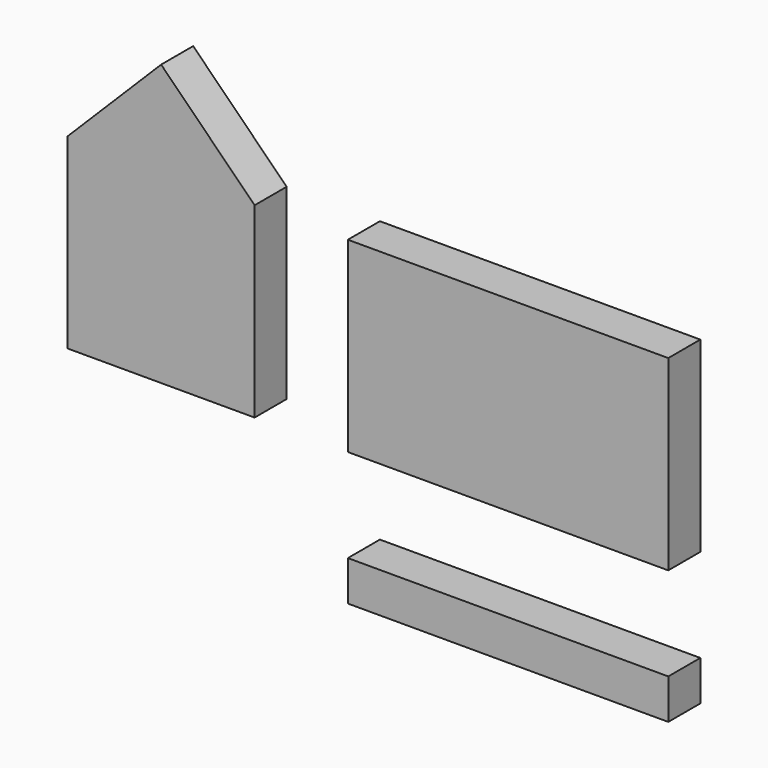
from build123d import *

# Parameters (mm, degrees)
F0_W     = 152.4
F0_H     = 88.9
F1_DEPTH = 19.05
F2_W     = 88.9
F2_H     = 133.35
F3_DEPTH = 19.05
F5_DEPTH = 19.051
F6_W     = 152.4
F6_H     = 19.05
F7_DEPTH = 19.05


with BuildPart() as f1:
    # F0 (on Front) → F1 (new body)
    with BuildSketch(Plane.XZ):
        with Locations((76.2, 44.45)):
            Rectangle(F0_W, F0_H)
    extrude(amount=F1_DEPTH)


with BuildPart() as f3:
    # F2 (on Front) → F3 (new body)
    with BuildSketch(Plane.XZ):
        with Locations((-88.806303, 66.675)):
            Rectangle(F2_W, F2_H)
    extrude(amount=F3_DEPTH)

    # F4 (on face) → F5 (cut, through all)
    with BuildSketch(Plane.XZ.offset(19.05)):
        Polygon((-133.256303, 88.9), (-88.806303, 133.35), (-133.256303, 133.35), align=None)
        Polygon((-44.356303, 133.35), (-88.806303, 133.35), (-44.356303, 88.9), align=None)
    extrude(amount=-F5_DEPTH, mode=Mode.SUBTRACT)


with BuildPart() as f7:
    # F6 (on Front) → F7 (new body)
    with BuildSketch(Plane.XZ):
        with Locations((76.2, -53.925259)):
            Rectangle(F6_W, F6_H)
    extrude(amount=F7_DEPTH)


solid = Compound([f1.part, f3.part, f7.part])
